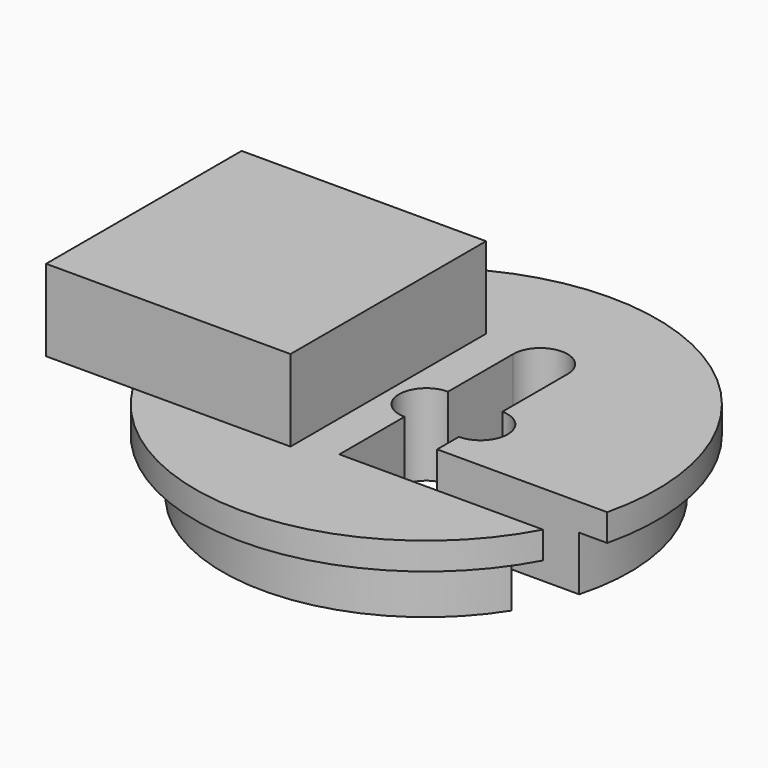
from build123d import *

# Parameters (mm, degrees)
F1_DEPTH = 5
F2_R     = 37.5
F3_DEPTH = 10
F4_DEPTH = 40.7
F6_DEPTH = 15


with BuildPart() as f1:
    # F0 (on Top) → F1 (new body)
    with BuildSketch(Plane.XY):
        with BuildLine():
            Line((10, -10), (41.306779, -10))
            ThreePointArc((41.306779, -10), (-39.719354, 15.120281), (37.5, -20))
            Line((37.5, -20), (0, -20))
            Line((0, -20), (0, -5))
            ThreePointArc((0, -5), (-5, 0), (0, 5))
            Line((0, 5), (0, 20))
            ThreePointArc((0, 20), (5, 25), (10, 20))
            Line((10, 20), (10, 5))
            ThreePointArc((10, 5), (15, 0), (10, -5))
            Line((10, -5), (10, -10))
        make_face()
        with BuildLine():
            ThreePointArc((37.5, -20), (39.719354, -15.120281), (41.306779, -10))
            Line((41.306779, -10), (10, -10))
            Line((10, -10), (10, -5))
            ThreePointArc((10, -5), (15, 0), (10, 5))
            Line((10, 5), (10, 20))
            ThreePointArc((10, 20), (5, 25), (0, 20))
            Line((0, 20), (0, 5))
            ThreePointArc((0, 5), (-5, 0), (0, -5))
            Line((0, -5), (0, -20))
            Line((0, -20), (37.5, -20))
        make_face()
    extrude(amount=-F1_DEPTH)

    # F2 (on face) → F3 (join)
    with BuildSketch(Plane(origin=(0, 0, -5), x_dir=(1, 0, 0), z_dir=(0, 0, -1))):
        Circle(F2_R)
    extrude(amount=F3_DEPTH)

    # F0 (on Top) → F4 (cut)
    with BuildSketch(Plane.XY):
        with BuildLine():
            ThreePointArc((37.5, -20), (39.719354, -15.120281), (41.306779, -10))
            Line((41.306779, -10), (10, -10))
            Line((10, -10), (10, -5))
            ThreePointArc((10, -5), (15, 0), (10, 5))
            Line((10, 5), (10, 20))
            ThreePointArc((10, 20), (5, 25), (0, 20))
            Line((0, 20), (0, 5))
            ThreePointArc((0, 5), (-5, 0), (0, -5))
            Line((0, -5), (0, -20))
            Line((0, -20), (37.5, -20))
        make_face()
    extrude(amount=-F4_DEPTH, mode=Mode.SUBTRACT)

    # F5 (on face) → F6 (join)
    with BuildSketch(Plane.XY):
        with BuildLine():
            ThreePointArc((-36.055513, -22.5), (-42.5, 0), (-36.055513, 22.5))
            Line((-36.055513, 22.5), (-52, 22.5))
            Line((-52, 22.5), (-52, -22.5))
            Line((-52, -22.5), (-36.055513, -22.5))
        make_face()
        with BuildLine():
            Line((-7, -22.5), (-7, 22.5))
            Line((-7, 22.5), (-36.055513, 22.5))
            ThreePointArc((-36.055513, 22.5), (-42.5, 0), (-36.055513, -22.5))
            Line((-36.055513, -22.5), (-7, -22.5))
        make_face()
    extrude(amount=F6_DEPTH)


solid = f1.part
